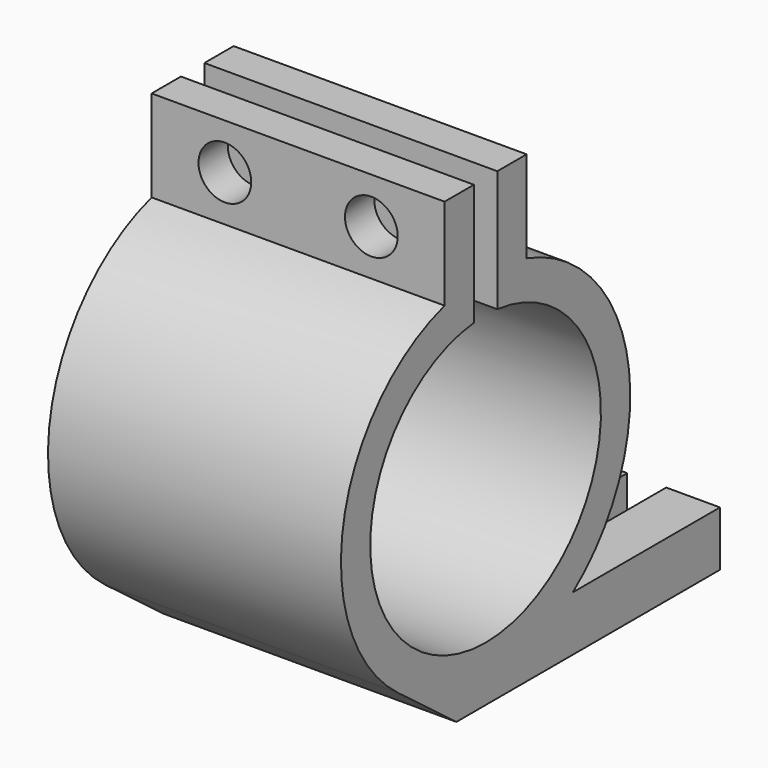
from build123d import *

# Parameters (mm, degrees)
F1_DEPTH = 25.4
F3_DEPTH = 25.401
F5_DEPTH = 4.7625
F6_R     = 2.286
F7_DEPTH = 20.121


with BuildPart() as f1:
    # F0 (on Right) → F1 (new body)
    with BuildSketch(Plane.YZ):
        with BuildLine():
            ThreePointArc((1.27, 12.435317), (0, -12.5), (-1.27, 12.435317))
            Line((-1.27, 12.435317), (-1.27, 22.969053))
            Line((-1.27, 22.969053), (-4.445, 22.969053))
            Line((-4.445, 22.969053), (-4.445, 15.031553))
            ThreePointArc((-4.445, 15.031553), (-15.421435, 2.808021), (-9.458098, -12.5))
            Line((-9.458098, -12.5), (-25.4, -12.5))
            Line((-25.4, -12.5), (-25.4, -17.2625))
            Line((-25.4, -17.2625), (25.4, -17.2625))
            Line((25.4, -17.2625), (25.4, -12.5))
            Line((25.4, -12.5), (9.458098, -12.5))
            ThreePointArc((9.458098, -12.5), (15.421435, 2.808021), (4.445, 15.031553))
            Line((4.445, 15.031553), (4.445, 22.969053))
            Line((4.445, 22.969053), (1.27, 22.969053))
            Line((1.27, 22.969053), (1.27, 12.435317))
        make_face()
    extrude(amount=F1_DEPTH)

    # F2 (on face) → F3 (cut, through all)
    with BuildSketch(Plane(origin=(0, 0, 0), x_dir=(0, -1, 0), z_dir=(-1, 0, 0))):
        Polygon((25.4, -12.5), (9.458098, -12.5), (3.163889, -17.2625), (25.4, -17.2625), align=None)
    extrude(amount=-F3_DEPTH, mode=Mode.SUBTRACT)

    # F4 (on face) → F5 (cut, through all)
    with BuildSketch(Plane.XY.offset(-12.5)):
        with BuildLine():
            Line((4.6609, 25.4), (4.6609, 17.4625))
            ThreePointArc((4.6609, 17.4625), (6.35, 15.7734), (8.0391, 17.4625))
            Line((8.0391, 17.4625), (8.0391, 25.4))
            Line((8.0391, 25.4), (4.6609, 25.4))
        make_face()
        with BuildLine():
            Line((17.3609, 25.4), (17.3609, 17.4625))
            ThreePointArc((17.3609, 17.4625), (19.05, 15.7734), (20.7391, 17.4625))
            Line((20.7391, 17.4625), (20.7391, 25.4))
            Line((20.7391, 25.4), (17.3609, 25.4))
        make_face()
    extrude(amount=-F5_DEPTH, mode=Mode.SUBTRACT)

    # F6 (on face) → F7 (cut, through all)
    with BuildSketch(Plane(origin=(0, 4.445, 0), x_dir=(-1, 0, 0), z_dir=(0, 1, 0))):
        with Locations((-19.05, 19.000303)):
            Circle(F6_R)
        with Locations((-6.35, 19.000303)):
            Circle(F6_R)
    extrude(amount=-F7_DEPTH, mode=Mode.SUBTRACT)


solid = f1.part
